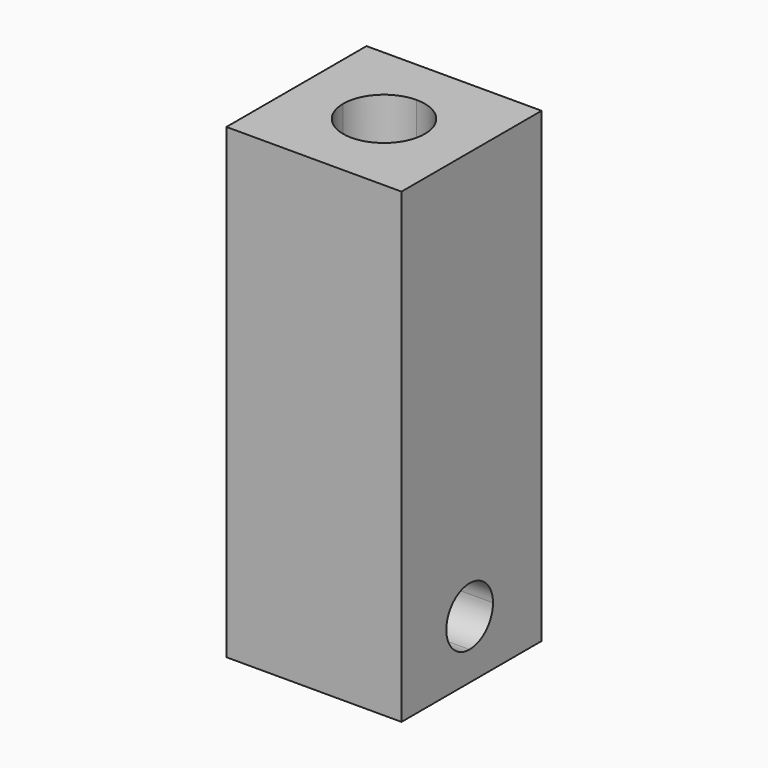
from build123d import *

# Parameters (mm, degrees)
F1_DEPTH = 10
F2_DEPTH = 40
F4_DEPTH = 15


with BuildPart() as f1:
    # F0 (on Top) → F1 (new body)
    with BuildSketch(Plane.XY):
        with BuildLine():
            Line((7.5, 7.7042555064), (0, 7.7042555064))
            Line((0, 7.7042555064), (0, 3.7042555064))
            ThreePointArc((0, 3.7042555064), (2.4748737342, 2.6791292405), (3.5, 0.2042555064))
            Line((3.5, 0.2042555064), (7.5, 0.2042555064))
            Line((7.5, 0.2042555064), (7.5, 7.7042555064))
        make_face()
        with BuildLine():
            Line((0, 7.7042555064), (-7.5, 7.7042555064))
            Line((-7.5, 7.7042555064), (-7.5, 0.2042555064))
            Line((-7.5, 0.2042555064), (-3.5, 0.2042555064))
            ThreePointArc((-3.5, 0.2042555064), (-2.4748737342, 2.6791292405), (0, 3.7042555064))
            Line((0, 3.7042555064), (0, 7.7042555064))
        make_face()
        with BuildLine():
            Line((-3.5, 0.2042555064), (-7.5, 0.2042555064))
            Line((-7.5, 0.2042555064), (-7.5, -7.2957444936))
            Line((-7.5, -7.2957444936), (0, -7.2957444936))
            Line((0, -7.2957444936), (0, -3.2957444936))
            ThreePointArc((0, -3.2957444936), (-2.4748737342, -2.2706182278), (-3.5, 0.2042555064))
        make_face()
        with BuildLine():
            Line((7.5, -7.2957444936), (7.5, 0.2042555064))
            Line((7.5, 0.2042555064), (3.5, 0.2042555064))
            ThreePointArc((3.5, 0.2042555064), (2.4748737342, -2.2706182278), (0, -3.2957444936))
            Line((0, -3.2957444936), (0, -7.2957444936))
            Line((0, -7.2957444936), (7.5, -7.2957444936))
        make_face()
        with BuildLine():
            Line((0, 0.2042555064), (0, 3.7042555064))
            ThreePointArc((0, 3.7042555064), (-2.4748737342, 2.6791292405), (-3.5, 0.2042555064))
            Line((-3.5, 0.2042555064), (0, 0.2042555064))
        make_face()
        with BuildLine():
            ThreePointArc((3.5, 0.2042555064), (2.4748737342, 2.6791292405), (0, 3.7042555064))
            Line((0, 3.7042555064), (0, 0.2042555064))
            Line((0, 0.2042555064), (3.5, 0.2042555064))
        make_face()
        with BuildLine():
            Line((3.5, 0.2042555064), (0, 0.2042555064))
            Line((0, 0.2042555064), (0, -3.2957444936))
            ThreePointArc((0, -3.2957444936), (2.4748737342, -2.2706182278), (3.5, 0.2042555064))
        make_face()
        with BuildLine():
            Line((0, 0.2042555064), (-3.5, 0.2042555064))
            ThreePointArc((-3.5, 0.2042555064), (-2.4748737342, -2.2706182278), (0, -3.2957444936))
            Line((0, -3.2957444936), (0, 0.2042555064))
        make_face()
    extrude(amount=F1_DEPTH)

    # F0 (on Top) → F2 (join)
    with BuildSketch(Plane.XY):
        with BuildLine():
            Line((0, 7.7042555064), (-7.5, 7.7042555064))
            Line((-7.5, 7.7042555064), (-7.5, 0.2042555064))
            Line((-7.5, 0.2042555064), (-3.5, 0.2042555064))
            ThreePointArc((-3.5, 0.2042555064), (-2.4748737342, 2.6791292405), (0, 3.7042555064))
            Line((0, 3.7042555064), (0, 7.7042555064))
        make_face()
        with BuildLine():
            Line((7.5, 7.7042555064), (0, 7.7042555064))
            Line((0, 7.7042555064), (0, 3.7042555064))
            ThreePointArc((0, 3.7042555064), (2.4748737342, 2.6791292405), (3.5, 0.2042555064))
            Line((3.5, 0.2042555064), (7.5, 0.2042555064))
            Line((7.5, 0.2042555064), (7.5, 7.7042555064))
        make_face()
        with BuildLine():
            Line((-3.5, 0.2042555064), (-7.5, 0.2042555064))
            Line((-7.5, 0.2042555064), (-7.5, -7.2957444936))
            Line((-7.5, -7.2957444936), (0, -7.2957444936))
            Line((0, -7.2957444936), (0, -3.2957444936))
            ThreePointArc((0, -3.2957444936), (-2.4748737342, -2.2706182278), (-3.5, 0.2042555064))
        make_face()
        with BuildLine():
            Line((7.5, -7.2957444936), (7.5, 0.2042555064))
            Line((7.5, 0.2042555064), (3.5, 0.2042555064))
            ThreePointArc((3.5, 0.2042555064), (2.4748737342, -2.2706182278), (0, -3.2957444936))
            Line((0, -3.2957444936), (0, -7.2957444936))
            Line((0, -7.2957444936), (7.5, -7.2957444936))
        make_face()
    extrude(amount=F2_DEPTH)

    # F3 (on face) → F4 (cut)
    with BuildSketch(Plane.YZ.offset(7.5)):
        with BuildLine():
            ThreePointArc((0, 7.5), (-2.5, 5), (0, 2.5))
            Line((0, 2.5), (0, 5))
            Line((0, 5), (0, 7.5))
        make_face()
        with BuildLine():
            Line((0, 5), (0, 2.5))
            ThreePointArc((0, 2.5), (1.767766953, 3.232233047), (2.5, 5))
            ThreePointArc((2.5, 5), (1.767766953, 6.767766953), (0, 7.5))
            Line((0, 7.5), (0, 5))
        make_face()
    extrude(amount=-F4_DEPTH, mode=Mode.SUBTRACT)


solid = f1.part
